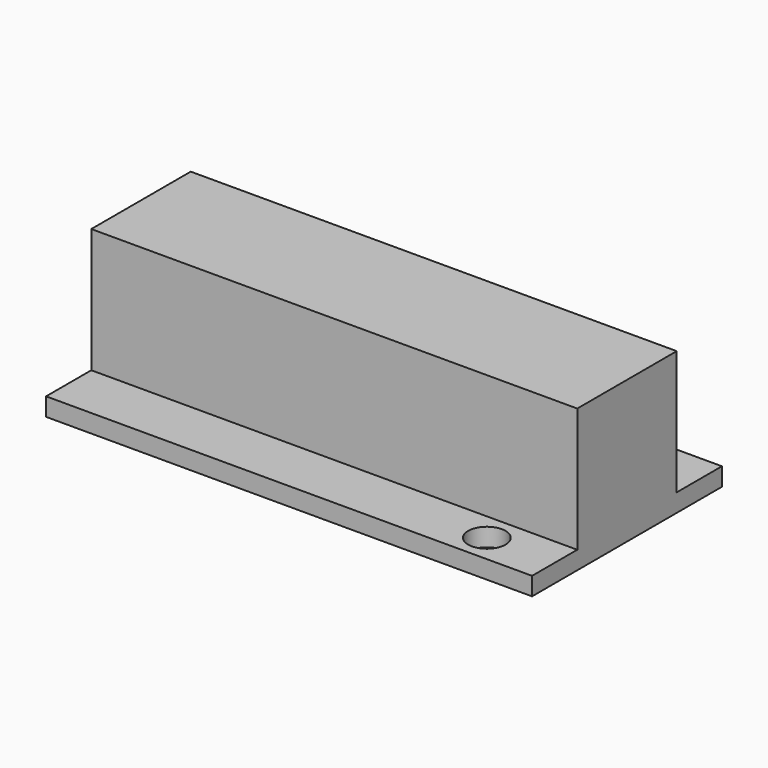
from build123d import *

# Parameters (mm, degrees)
F0_W     = 43
F0_H     = 21
F0_R     = 1.65
F1_DEPTH = 1.6
F2_W     = 43
F2_H     = 11
F3_DEPTH = 11


with BuildPart() as f1:
    # F0 (on Top) → F1 (new body)
    with BuildSketch(Plane.XY):
        Rectangle(F0_W, F0_H)
        with Locations((15.5, -8)):
            Circle(F0_R, mode=Mode.SUBTRACT)
        with Locations((-15.5, 8)):
            Circle(F0_R, mode=Mode.SUBTRACT)
        Rectangle(F0_W, F0_H)
        with Locations((15.5, -8)):
            Circle(F0_R, mode=Mode.SUBTRACT)
        with Locations((-15.5, 8)):
            Circle(F0_R, mode=Mode.SUBTRACT)
    extrude(amount=F1_DEPTH)

    # F2 (on face) → F3 (join)
    with BuildSketch(Plane.XY.offset(1.6)):
        Rectangle(F2_W, F2_H)
    extrude(amount=F3_DEPTH)


solid = f1.part
